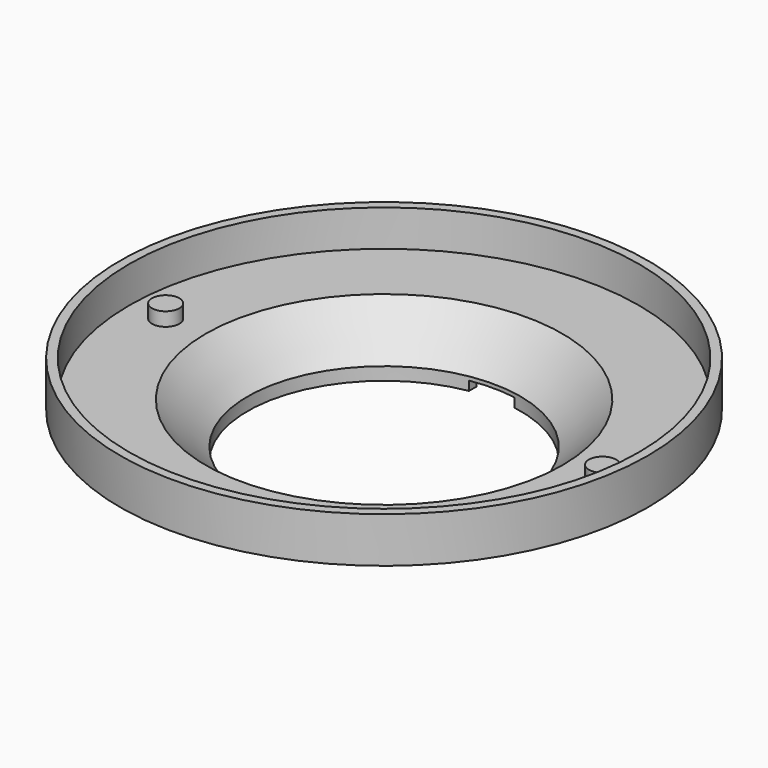
from build123d import *

# Parameters (mm, degrees)
F0_R          = 29
F1_DEPTH      = 10
F2_R          = 29
F2_R_2        = 16
F3_DEPTH      = 5
F4_SIZE       = 4
F5_T          = -1
F6_R          = 1.5
F7_DEPTH      = 1.5
F8_W          = 5
F8_H          = 1
F9_DEPTH      = 29.001
F9_DEPTH_BACK = 29.001


with BuildPart() as f1:
    # F0 (on Top) → F1 (new body)
    with BuildSketch(Plane.XY):
        Circle(F0_R)
    extrude(amount=F1_DEPTH)

    # F2 (on face) → F3 (cut)
    with BuildSketch(Plane(origin=(0, 0, 0), x_dir=(1, 0, 0), z_dir=(0, 0, -1))):
        Circle(F2_R)
        Circle(F2_R_2, mode=Mode.SUBTRACT)
    extrude(amount=-F3_DEPTH, mode=Mode.SUBTRACT)

    # F4
    f4_edges = [f1.edges().sort_by_distance(p)[0] for p in [
        (-16, 0, 5),
    ]]
    chamfer(f4_edges, length=F4_SIZE)

    # F5
    f5_openings = [f1.faces().sort_by_distance(p)[0] for p in [
        (0, 0, 10),
        (0, 0, 0),
    ]]
    offset(amount=F5_T, openings=f5_openings, kind=Kind.INTERSECTION)

    # F6 (on face) → F7 (join)
    with BuildSketch(Plane.XY.offset(6)):
        with Locations((-24, 0)):
            Circle(F6_R)
        with Locations((24, 0)):
            Circle(F6_R)
    extrude(amount=F7_DEPTH)

    # F8 (on Front) → F9 (cut, two sides)
    with BuildSketch(Plane.XZ) as f9_sk:
        with Locations((0, 0.5)):
            Rectangle(F8_W, F8_H)
    extrude(amount=-F9_DEPTH, mode=Mode.SUBTRACT)
    extrude(f9_sk.sketch, amount=F9_DEPTH_BACK, mode=Mode.SUBTRACT)


solid = f1.part
